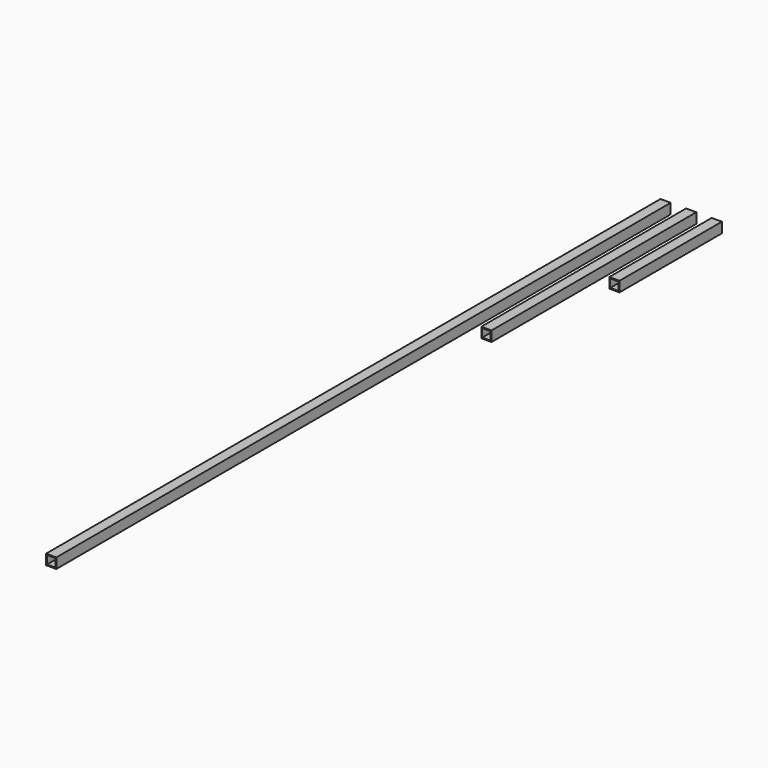
from build123d import *

# Parameters (mm, degrees)
F0_W     = 8
F0_H     = 8
F0_W_2   = 6.5
F0_H_2   = 6.5
F1_DEPTH = 600
F2_W     = 8
F2_H     = 8
F2_W_2   = 6.5
F2_H_2   = 6.5
F3_DEPTH = 200
F4_W     = 8
F4_H     = 8
F4_W_2   = 6.5
F4_H_2   = 6.5
F5_DEPTH = 100


with BuildPart() as f1:
    # F0 (on Front) → F1 (new body)
    with BuildSketch(Plane.XZ):
        Rectangle(F0_W, F0_H)
        Rectangle(F0_W_2, F0_H_2, mode=Mode.SUBTRACT)
    extrude(amount=F1_DEPTH)


with BuildPart() as f3:
    # F2 (on Front) → F3 (new body)
    with BuildSketch(Plane.XZ):
        with Locations((20, 0)):
            Rectangle(F2_W, F2_H)
        with Locations((20, 0)):
            Rectangle(F2_W_2, F2_H_2, mode=Mode.SUBTRACT)
    extrude(amount=F3_DEPTH)


with BuildPart() as f5:
    # F4 (on Front) → F5 (new body)
    with BuildSketch(Plane.XZ):
        with Locations((40, 0)):
            Rectangle(F4_W, F4_H)
        with Locations((40, 0)):
            Rectangle(F4_W_2, F4_H_2, mode=Mode.SUBTRACT)
    extrude(amount=F5_DEPTH)


solid = Compound([f1.part, f3.part, f5.part])
